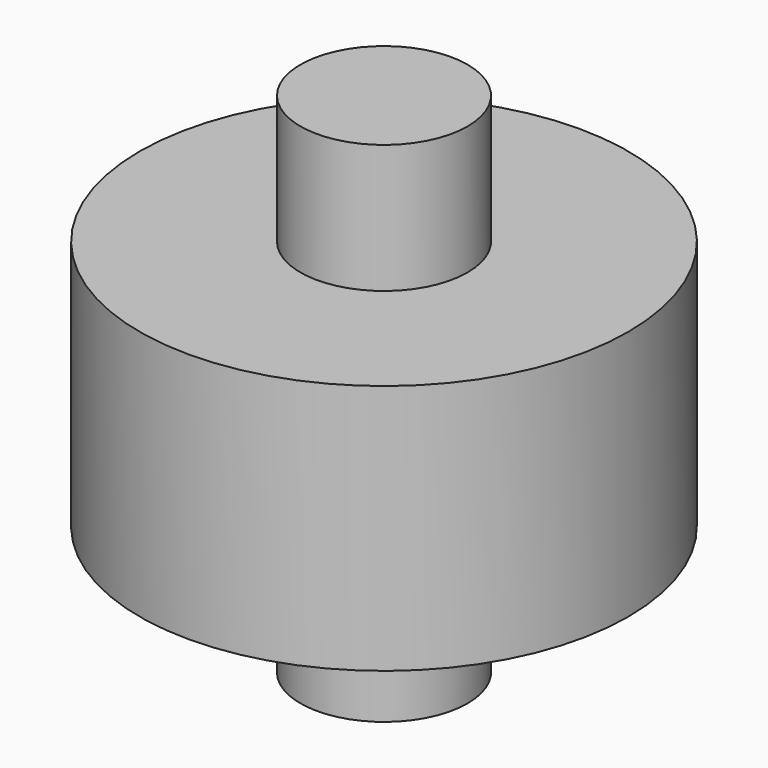
from build123d import *

# Parameters (mm, degrees)
F0_R     = 19
F1_DEPTH = 19.5
F2_R     = 6.5
F3_DEPTH = 29.5
F4_DEPTH = 10


with BuildPart() as f1:
    # F0 (on Top) → F1 (new body)
    with BuildSketch(Plane.XY):
        Circle(F0_R)
    extrude(amount=F1_DEPTH)


with BuildPart() as f3:
    # F2 (on Top) → F3 (new body)
    with BuildSketch(Plane.XY):
        Circle(F2_R)
    extrude(amount=F3_DEPTH)


with BuildPart() as f4:
    # F2 (on Top) → F4 (new body)
    with BuildSketch(Plane.XY):
        Circle(F2_R)
    extrude(amount=-F4_DEPTH)


solid = Compound([f1.part, f3.part, f4.part])
